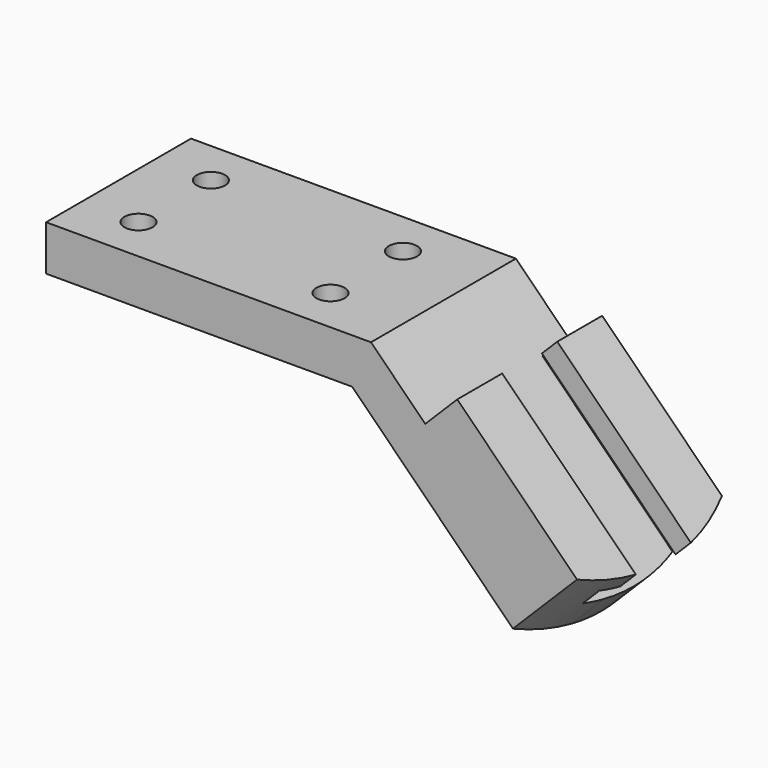
from build123d import *

# Parameters (mm, degrees)
F1_DEPTH       = 25.4
F4_D           = 7.9248
F4_CBORE_D     = 12.7
F4_CBORE_DEPTH = 6.096
F6_DEPTH       = 139.7917874995
F8_DEPTH       = 121.1595313784


with BuildPart() as f1:
    # F0 (on Front) → F1 (new body, symmetric)
    with BuildSketch(Plane.XZ):
        Polygon((0, 12.7), (0, 0), (85.852, 0), (135.4230137883, -49.5710137883), (153.3835260304, -31.6105015462), (115.3072400771, 6.4657844072), (106.326983956, -2.5144717139), (91.1125122421, 12.7), align=None)
    extrude(amount=F1_DEPTH, both=True)

    # F4 (through all)
    with Locations(Plane(origin=(0, 0, 0), x_dir=(1, 0, 0), z_dir=(0, 0, -1))):
        with Locations((15.748, 12.7), (15.748, -12.7), (69.596, 12.7), (69.596, -12.7)):
            CounterBoreHole(F4_D / 2, F4_CBORE_D / 2, F4_CBORE_DEPTH)

    # F5 (on face) → F6 (cut, through all)
    with BuildSketch(Plane(origin=(92.4970137883, 0, -92.4970137883), x_dir=(0, 1, 0), z_dir=(0.7071067812, 0, -0.7071067812))):
        Polygon((9.652, 86.1065313784), (-9.652, 86.1065313784), (-9.652, 80.0105313784), (-15.748, 80.0105313784), (-15.748, 73.4065313784), (15.748, 73.4065313784), (15.748, 80.0105313784), (9.652, 80.0105313784), align=None)
    extrude(amount=-F6_DEPTH, mode=Mode.SUBTRACT)

    # F7 (on face) → F8 (cut, through all)
    with BuildSketch(Plane(origin=(60.8865122421, 0, 60.8865122421), x_dir=(0.7071067812, 0, -0.7071067812), z_dir=(0.7071067812, 0, 0.7071067812))):
        with BuildLine():
            ThreePointArc((129.9384315595, -9.652), (127.8044235189, -17.7400424907), (124.4435497331, -25.4))
            Line((124.4435497331, -25.4), (130.8105313784, -25.4))
            Line((130.8105313784, -25.4), (130.8105313784, -15.748))
            Line((130.8105313784, -15.748), (130.8105313784, -9.652))
            Line((130.8105313784, -9.652), (129.9384315595, -9.652))
        make_face()
        with BuildLine():
            Line((129.9384315595, 9.652), (130.8105313784, 9.652))
            Line((130.8105313784, 9.652), (130.8105313784, 15.748))
            Line((130.8105313784, 15.748), (130.8105313784, 25.4))
            Line((130.8105313784, 25.4), (124.4435497331, 25.4))
            ThreePointArc((124.4435497331, 25.4), (127.8044235189, 17.7400424907), (129.9384315595, 9.652))
        make_face()
        with BuildLine():
            ThreePointArc((130.8105313784, 0), (130.5920632473, -4.8456594519), (129.9384315595, -9.652))
            Line((129.9384315595, -9.652), (130.8105313784, -9.652))
            Line((130.8105313784, -9.652), (130.8105313784, 0))
        make_face()
        with BuildLine():
            ThreePointArc((129.9384315595, 9.652), (130.5920632473, 4.8456594519), (130.8105313784, 0))
            Line((130.8105313784, 0), (130.8105313784, 9.652))
            Line((130.8105313784, 9.652), (129.9384315595, 9.652))
        make_face()
    extrude(amount=-F8_DEPTH, mode=Mode.SUBTRACT)


solid = f1.part
